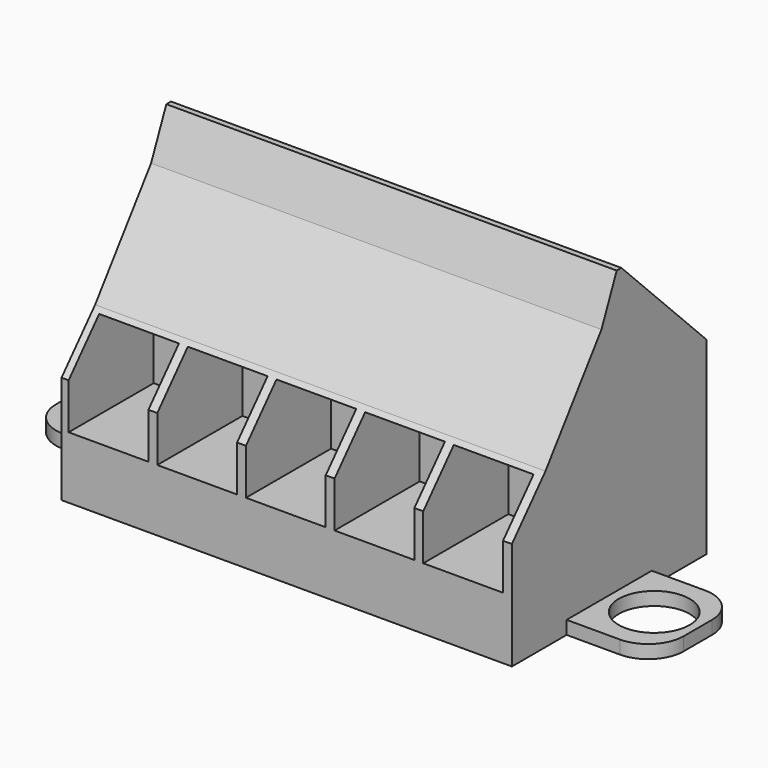
from build123d import *

# Parameters (mm, degrees)
F0_W      = 25.4
F0_H      = 13.716
F1_DEPTH  = 16.657
F3_DEPTH  = 25.401
F5_W      = 4.5
F5_H      = 5
F4_R      = 2.25
F6_DEPTH  = 6
F7_R      = 2.25
F8_DEPTH  = 2
F9_W      = 6
F9_H      = 0.75
F10_DEPTH = 5
F11_W     = 6
F11_H     = 0.75
F12_DEPTH = 5
F13_R     = 2
F14_R     = 2
F15_DEPTH = 0.751
F16_R     = 2
F17_DEPTH = 0.751


with BuildPart() as f1:
    # F0 (on Top) → F1 (new body)
    with BuildSketch(Plane.XY):
        Rectangle(F0_W, F0_H)
    extrude(amount=F1_DEPTH)

    # F2 (on face) → F3 (cut, through all)
    with BuildSketch(Plane(origin=(-12.7, 0, 0), x_dir=(0, -1, 0), z_dir=(-1, 0, 0))):
        Polygon((-6.858, 10.657), (-0.858, 16.657), (-6.858, 16.657), align=None)
        Polygon((6.858, 16.657), (-0.5295271985, 16.657), (0.5445904681, 14.1634047031), (4.491972737, 8.7391110137), (6.858, 6.0806702822), align=None)
    extrude(amount=-F3_DEPTH, mode=Mode.SUBTRACT)

    # F5 (on face) + F4 (on face) → F6 (cut)
    with BuildSketch(Plane.XZ.offset(6.858)):
        with Locations((-10.05, 6)):
            Rectangle(F5_W, F5_H)
        with Locations((-5.05, 6)):
            Rectangle(F5_W, F5_H)
        with Locations((-0.05, 6)):
            Rectangle(F5_W, F5_H)
        with Locations((4.95, 6)):
            Rectangle(F5_W, F5_H)
        with Locations((9.95, 6)):
            Rectangle(F5_W, F5_H)
        with Locations((14.95, 6)):
            Rectangle(F5_W, F5_H)
        with Locations((19.95, 6)):
            Rectangle(F5_W, F5_H)
        with Locations((24.95, 6)):
            Rectangle(F5_W, F5_H)
        with Locations((29.95, 6)):
            Rectangle(F5_W, F5_H)
        with Locations((34.95, 6)):
            Rectangle(F5_W, F5_H)
        with Locations((39.95, 6)):
            Rectangle(F5_W, F5_H)
        with Locations((44.95, 6)):
            Rectangle(F5_W, F5_H)
    with BuildSketch(Plane(origin=(0, 6.858, 0), x_dir=(-1, 0, 0), z_dir=(0, 1, 0))):
        with Locations((9.72, 5.3285)):
            Circle(F4_R)
        with Locations((4.72, 5.3285)):
            Circle(F4_R)
        with Locations((-0.28, 5.3285)):
            Circle(F4_R)
        with Locations((-5.28, 5.3285)):
            Circle(F4_R)
        with Locations((-10.28, 5.3285)):
            Circle(F4_R)
        with Locations((-15.28, 5.3285)):
            Circle(F4_R)
        with Locations((-20.28, 5.3285)):
            Circle(F4_R)
        with Locations((-25.28, 5.3285)):
            Circle(F4_R)
        with Locations((-30.28, 5.3285)):
            Circle(F4_R)
        with Locations((-35.28, 5.3285)):
            Circle(F4_R)
        with Locations((-40.28, 5.3285)):
            Circle(F4_R)
        with Locations((-45.28, 5.3285)):
            Circle(F4_R)
    extrude(amount=-F6_DEPTH, dir=(0, -1, 0), mode=Mode.SUBTRACT)

    # F7 (on face) → F8 (cut)
    with BuildSketch(Plane(origin=(0, 8.7575, 8.7575), x_dir=(1, 0, 0), z_dir=(0, 0.7071067812, 0.7071067812))):
        with Locations((-10.05, -6.9289393488)):
            Circle(F7_R)
        with Locations((-5.05, -6.9289393488)):
            Circle(F7_R)
        with Locations((-0.05, -6.9289393488)):
            Circle(F7_R)
        with Locations((4.95, -6.9289393488)):
            Circle(F7_R)
        with Locations((9.95, -6.9289393488)):
            Circle(F7_R)
        with Locations((14.95, -6.9289393488)):
            Circle(F7_R)
        with Locations((19.95, -6.9289393488)):
            Circle(F7_R)
        with Locations((24.95, -6.9289393488)):
            Circle(F7_R)
        with Locations((29.95, -6.9289393488)):
            Circle(F7_R)
        with Locations((34.95, -6.9289393488)):
            Circle(F7_R)
        with Locations((39.95, -6.9289393488)):
            Circle(F7_R)
        with Locations((44.95, -6.9289393488)):
            Circle(F7_R)
    extrude(amount=-F8_DEPTH, mode=Mode.SUBTRACT)

    # F9 (on face) → F10 (join)
    with BuildSketch(Plane(origin=(-12.7, 0, 0), x_dir=(0, -1, 0), z_dir=(-1, 0, 0))):
        with Locations((0, 0.375)):
            Rectangle(F9_W, F9_H)
    extrude(amount=F10_DEPTH)

    # F11 (on face) → F12 (join)
    with BuildSketch(Plane.YZ.offset(12.7)):
        with Locations((0, 0.375)):
            Rectangle(F11_W, F11_H)
    extrude(amount=F12_DEPTH)

    # F13
    f13_edges = [f1.edges().sort_by_distance(p)[0] for p in [
        (-17.7, 3, 0.375),
        (-17.7, -3, 0.375),
        (17.7, -3, 0.375),
        (17.7, 3, 0.375),
    ]]
    fillet(f13_edges, radius=F13_R)

    # F14 (on face) → F15 (cut, through all)
    with BuildSketch(Plane.XY.offset(0.75)):
        with Locations((-15.24, 0)):
            Circle(F14_R)
    extrude(amount=-F15_DEPTH, mode=Mode.SUBTRACT)

    # F16 (on face) → F17 (cut, through all)
    with BuildSketch(Plane.XY.offset(0.75)):
        with Locations((15.24, 0)):
            Circle(F16_R)
    extrude(amount=-F17_DEPTH, mode=Mode.SUBTRACT)


solid = f1.part
